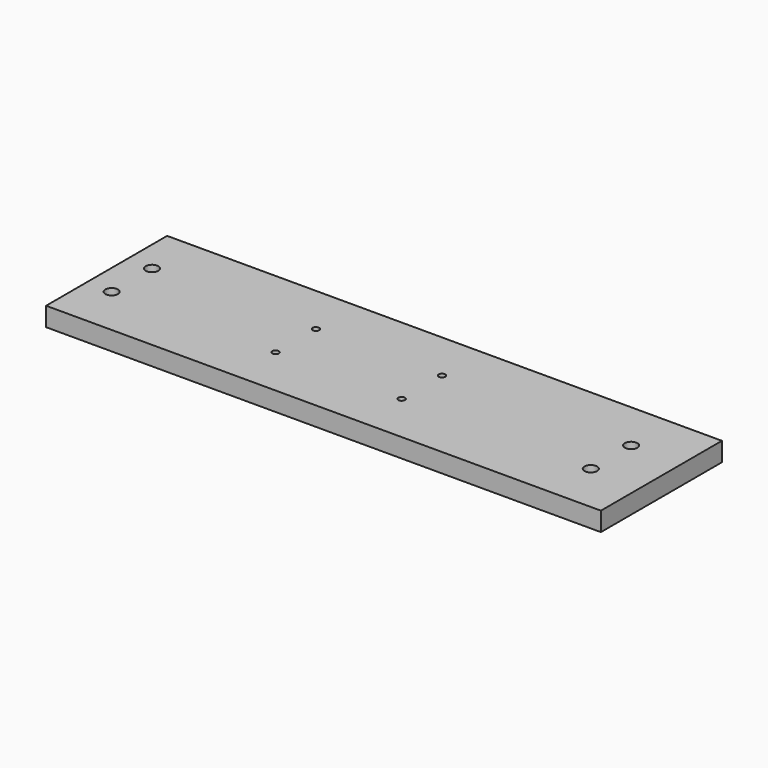
from build123d import *

# Parameters (mm, degrees)
F0_W     = 11
F0_H     = 3
F1_DEPTH = 0.375
F3_D     = 0.25
F3_DEPTH = 12
F5_D     = 0.13
F5_DEPTH = 12


with BuildPart() as f1:
    # F0 (on Top) → F1 (new body)
    with BuildSketch(Plane.XY):
        with Locations((5.5, 0)):
            Rectangle(F0_W, F0_H)
    extrude(amount=F1_DEPTH)

    # F3
    with Locations(Plane.XY.offset(0.375)):
        with Locations((0.5, 0.5), (0.5, -0.5), (10, -0.5), (10, 0.5)):
            Hole(F3_D / 2, depth=F3_DEPTH)

    # F5
    with Locations(Plane.XY.offset(0.375)):
        with Locations((3.75, 0.5), (3.75, -0.5), (6.25, -0.5), (6.25, 0.5)):
            Hole(F5_D / 2, depth=F5_DEPTH)


solid = f1.part
